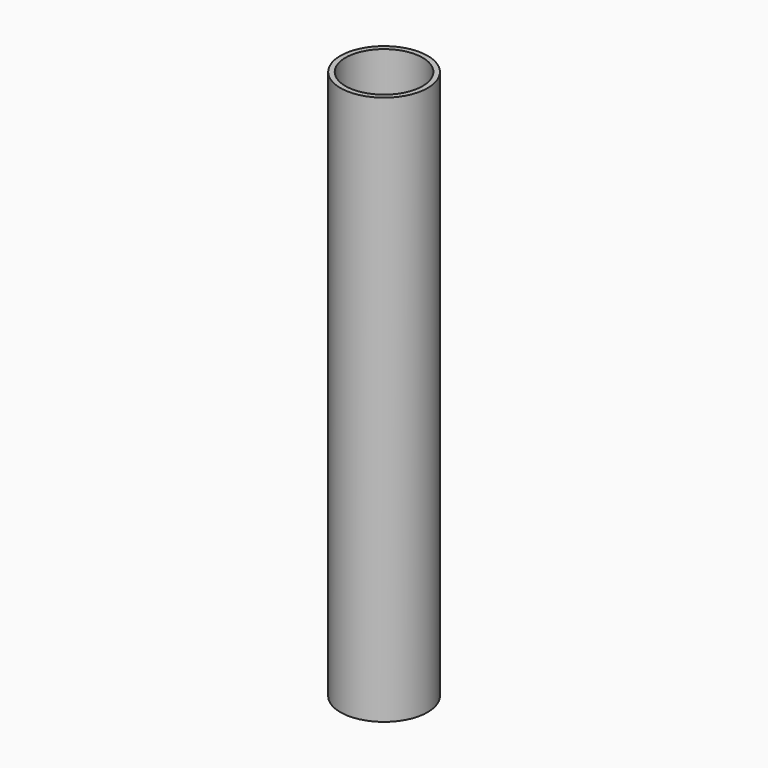
from build123d import *

# Parameters (mm, degrees)
F0_R          = 14.3
F1_DEPTH      = 150
F1_DEPTH_BACK = 30
F2_R          = 12.6236
F3_DEPTH      = 180.001


with BuildPart() as f1:
    # F0 (on Top) → F1 (new body, two sides)
    with BuildSketch(Plane.XY) as f1_sk:
        Circle(F0_R)
    extrude(amount=F1_DEPTH)
    extrude(f1_sk.sketch, amount=-F1_DEPTH_BACK)

    # F2 (on face) → F3 (cut, through all)
    with BuildSketch(Plane.XY.offset(150)):
        Circle(F2_R)
    extrude(amount=-F3_DEPTH, mode=Mode.SUBTRACT)


solid = f1.part
